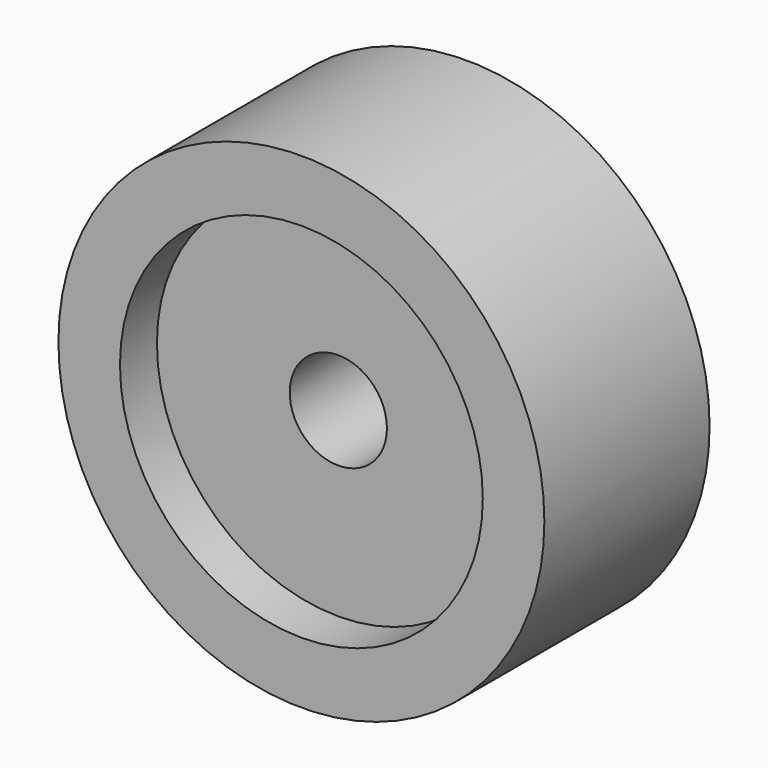
from build123d import *

# Parameters (mm, degrees)
F0_R     = 254
F1_DEPTH = 215.9
F2_R     = 50.8
F3_DEPTH = 215.901
F4_R     = 189.621559
F5_DEPTH = 48.26


with BuildPart() as f1:
    # F0 (on Front) → F1 (new body)
    with BuildSketch(Plane.XZ):
        Circle(F0_R)
    extrude(amount=F1_DEPTH)

    # F2 (on face) → F3 (cut, through all)
    with BuildSketch(Plane.XZ.offset(215.9)):
        Circle(F2_R)
    extrude(amount=-F3_DEPTH, mode=Mode.SUBTRACT)

    # F4 (on face) → F5 (cut)
    with BuildSketch(Plane.XZ.offset(215.9)):
        Circle(F4_R)
    extrude(amount=-F5_DEPTH, mode=Mode.SUBTRACT)


solid = f1.part
